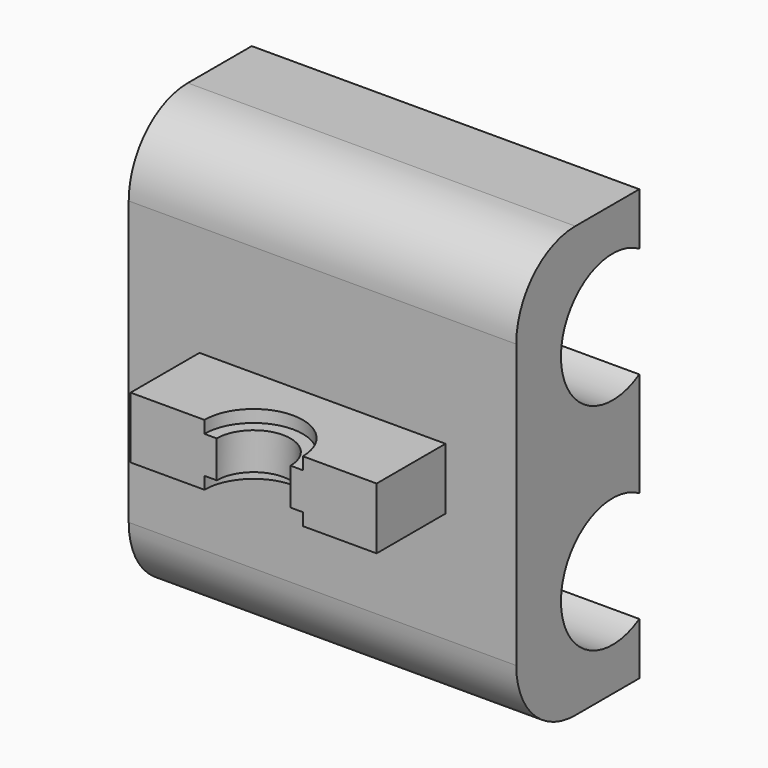
from build123d import *

# Parameters (mm, degrees)
F0_W      = 63
F0_H      = 70
F1_DEPTH  = 25
F3_DEPTH  = 63.001
F4_W      = 40
F4_H      = 10
F5_DEPTH  = 14
F7_DEPTH  = 40.001
F8_DEPTH  = 2
F9_R      = 8
F10_DEPTH = 2
F11_R     = 12


with BuildPart() as f1:
    # F0 (on Front) → F1 (new body)
    with BuildSketch(Plane.XZ):
        Rectangle(F0_W, F0_H)
    extrude(amount=F1_DEPTH)

    # F2 (on face) → F3 (cut, through all)
    with BuildSketch(Plane(origin=(-31.5, 0, 0), x_dir=(0, -1, 0), z_dir=(-1, 0, 0))):
        with BuildLine():
            ThreePointArc((0, 8.5052742394), (10.5828714835, 8.3586246097), (15.9170941003, 17.5))
            ThreePointArc((15.9170941003, 17.5), (10.5828714835, 26.6413753903), (0, 26.4947257606))
            Line((0, 26.4947257606), (0, 8.5052742394))
        make_face()
        with BuildLine():
            ThreePointArc((15.9170941003, -17.5), (10.5828714835, -8.3586246097), (0, -8.5052742394))
            Line((0, -8.5052742394), (0, -26.4947257606))
            ThreePointArc((0, -26.4947257606), (10.5828714835, -26.6413753903), (15.9170941003, -17.5))
        make_face()
    extrude(amount=-F3_DEPTH, mode=Mode.SUBTRACT)

    # F4 (on face) → F5 (join)
    with BuildSketch(Plane.XZ.offset(25)):
        Rectangle(F4_W, F4_H)
    extrude(amount=F5_DEPTH)

    # F6 (on face) → F7 (cut, through all)
    with BuildSketch(Plane(origin=(0, 0, -5), x_dir=(1, 0, 0), z_dir=(0, 0, -1))):
        with BuildLine():
            ThreePointArc((-6, 39), (0, 33), (6, 39))
            Line((6, 39), (-6, 39))
        make_face()
    extrude(amount=-F7_DEPTH, mode=Mode.SUBTRACT)

    # F6 (on face) → F8 (cut)
    with BuildSketch(Plane(origin=(0, 0, -5), x_dir=(1, 0, 0), z_dir=(0, 0, -1))):
        with BuildLine():
            ThreePointArc((-8, 39), (0, 31), (8, 39))
            Line((8, 39), (6, 39))
            ThreePointArc((6, 39), (0, 33), (-6, 39))
            Line((-6, 39), (-8, 39))
        make_face()
    extrude(amount=-F8_DEPTH, mode=Mode.SUBTRACT)

    # F9 (on face) → F10 (cut)
    with BuildSketch(Plane.XY.offset(5)):
        with Locations((0, -39)):
            Circle(F9_R)
    extrude(amount=-F10_DEPTH, mode=Mode.SUBTRACT)

    # F11
    f11_edges = [f1.edges().sort_by_distance(p)[0] for p in [
        (0, -25, 35),
        (0, -25, -35),
    ]]
    fillet(f11_edges, radius=F11_R)


solid = f1.part
